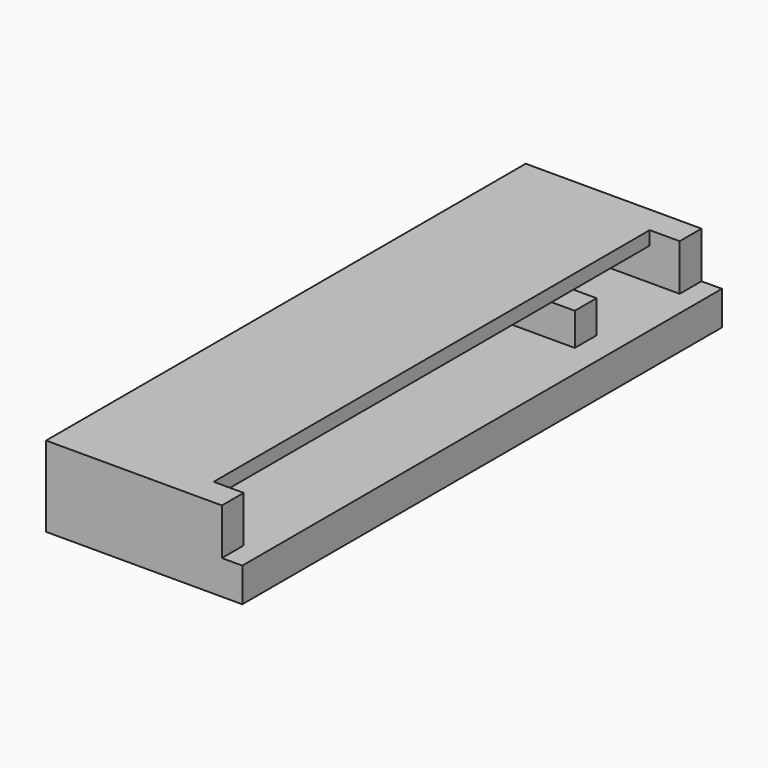
from build123d import *

# Parameters (mm, degrees)
SKETCH009_W   = 7.2
SKETCH009_H   = 22
PAD006_DEPTH  = 1.25
SKETCH010_W   = 1
SKETCH010_H   = 22
SKETCH010_W_2 = 5.45
SKETCH010_H_2 = 1
SKETCH010_W_3 = 5.2
PAD007_DEPTH  = 1.2
SKETCH011_W   = 5.35
SKETCH011_H   = 22
SKETCH011_W_2 = 1.1
SKETCH011_H_2 = 1
PAD008_DEPTH  = 0.5


with BuildPart() as part:
    # Sketch009 → Pad006 (new body)
    with BuildSketch(Plane.XY):
        Rectangle(SKETCH009_W, SKETCH009_H)
    extrude(amount=PAD006_DEPTH)

    # Sketch010 (on Face6 of Pad006) → Pad007 (join)
    with BuildSketch(Plane.XY.offset(1.25)):
        with Locations((-3.1, 0)):
            Rectangle(SKETCH010_W, SKETCH010_H)
        with Locations((0.125, 10.5)):
            Rectangle(SKETCH010_W_2, SKETCH010_H_2)
        with Locations((0, 6)):
            Rectangle(SKETCH010_W_3, SKETCH010_H_2)
        with Locations((0.125, -10.5)):
            Rectangle(SKETCH010_W_2, SKETCH010_H_2)
    extrude(amount=PAD007_DEPTH)

    # Sketch011 (on Face16 of Pad007) → Pad008 (join)
    with BuildSketch(Plane.XY.offset(2.45)):
        with Locations((-0.925, 0)):
            Rectangle(SKETCH011_W, SKETCH011_H)
        with Locations((2.3, -10.5)):
            Rectangle(SKETCH011_W_2, SKETCH011_H_2)
        with Locations((2.3, 10.5)):
            Rectangle(SKETCH011_W_2, SKETCH011_H_2)
    extrude(amount=PAD008_DEPTH)


solid = part.part
